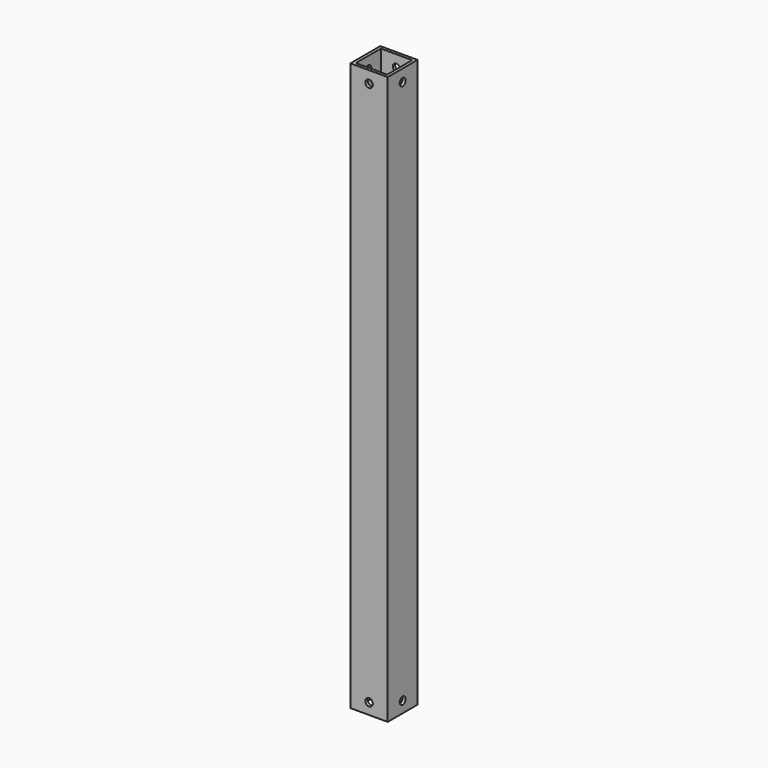
from build123d import *

# Parameters (mm, degrees)
F0_W     = 25
F0_H     = 25
F0_W_2   = 21
F0_H_2   = 21
F1_DEPTH = 380
F2_R     = 2.5
F3_DEPTH = 25
F4_R     = 2.5
F5_DEPTH = 25


with BuildPart() as f1:
    # F0 (on Top) → F1 (new body)
    with BuildSketch(Plane.XY):
        Rectangle(F0_W, F0_H)
        Rectangle(F0_W_2, F0_H_2, mode=Mode.SUBTRACT)
    extrude(amount=F1_DEPTH)

    # F2 (on face) → F3 (cut)
    with BuildSketch(Plane.XZ.offset(12.5)):
        with Locations((0, 372)):
            Circle(F2_R)
        with Locations((0, 7.5)):
            Circle(F2_R)
    extrude(amount=-F3_DEPTH, mode=Mode.SUBTRACT)

    # F4 (on face) → F5 (cut)
    with BuildSketch(Plane.YZ.offset(12.5)):
        with Locations((0, 372)):
            Circle(F4_R)
        with Locations((0, 7.5)):
            Circle(F4_R)
    extrude(amount=-F5_DEPTH, mode=Mode.SUBTRACT)


solid = f1.part
